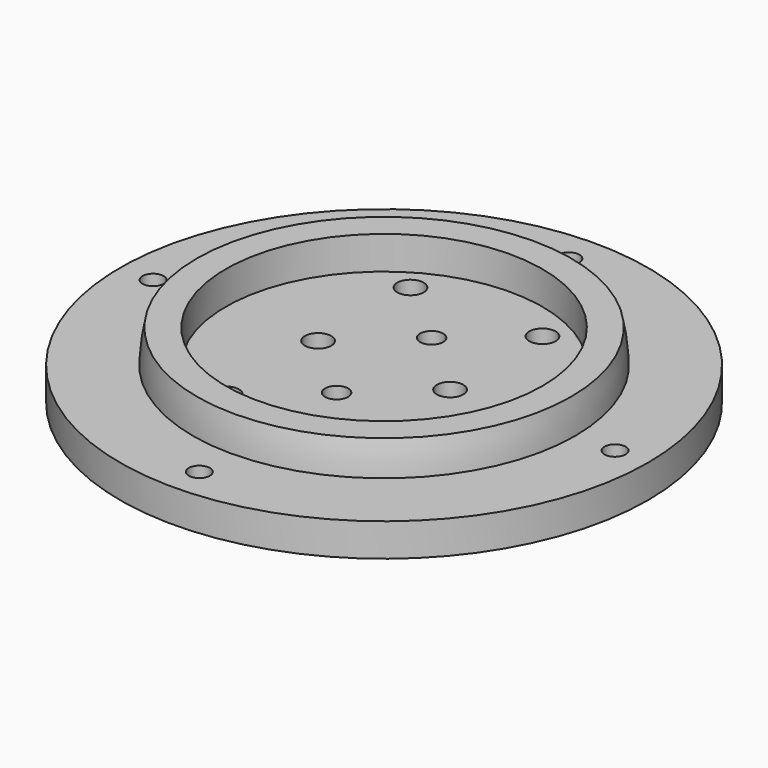
from build123d import *

# Parameters (mm, degrees)
CYLINDER047_R     = 1.6
CYLINDER047_DEPTH = 10
CYLINDER048_R     = 1.6
CYLINDER048_DEPTH = 10
CYLINDER049_R     = 1.6
CYLINDER049_DEPTH = 10
CYLINDER046_R     = 1.6
CYLINDER046_DEPTH = 10
CYLINDER043_R     = 2
CYLINDER043_DEPTH = 10
CYLINDER042_R     = 2
CYLINDER042_DEPTH = 10
CYLINDER045_R     = 1.75
CYLINDER045_DEPTH = 10
CYLINDER044_R     = 1.75
CYLINDER044_DEPTH = 10
CYLINDER036_R     = 2
CYLINDER036_DEPTH = 10
CYLINDER037_R     = 2
CYLINDER037_DEPTH = 10
CYLINDER038_R     = 2
CYLINDER038_DEPTH = 10
CYLINDER039_R     = 2
CYLINDER039_DEPTH = 10
CYLINDER041_R     = 24
CYLINDER041_DEPTH = 7
CYLINDER040_R     = 40
CYLINDER040_DEPTH = 5


with BuildPart() as obj1:
    # Cylinder047 → Cylinder047 (new body)
    with BuildSketch(Plane(origin=(40, 0, 65), x_dir=(1, 0, 0), z_dir=(0, 0, 1))):
        Circle(CYLINDER047_R)
    extrude(amount=CYLINDER047_DEPTH)


with BuildPart() as obj2:
    # Cylinder048 → Cylinder048 (new body)
    with BuildSketch(Plane(origin=(5, 35, 65), x_dir=(1, 0, 0), z_dir=(0, 0, 1))):
        Circle(CYLINDER048_R)
    extrude(amount=CYLINDER048_DEPTH)


with BuildPart() as obj3:
    # Cylinder049 → Cylinder049 (new body)
    with BuildSketch(Plane(origin=(5, -35, 65), x_dir=(1, 0, 0), z_dir=(0, 0, 1))):
        Circle(CYLINDER049_R)
    extrude(amount=CYLINDER049_DEPTH)


with BuildPart() as fusion021:
    # Cylinder046 → Cylinder046 (new body)
    with BuildSketch(Plane(origin=(-30, 0, 65), x_dir=(1, 0, 0), z_dir=(0, 0, 1))):
        Circle(CYLINDER046_R)
    extrude(amount=CYLINDER046_DEPTH)

    # Fusion021: union obj1, obj2, obj3
    add(obj1.part)
    add(obj2.part)
    add(obj3.part)


with BuildPart() as wirecut003:
    # Cylinder043 → Cylinder043 (new body)
    with BuildSketch(Plane(origin=(15, 0, 70), x_dir=(1, 0, 0), z_dir=(0, 0, 1))):
        Circle(CYLINDER043_R)
    extrude(amount=CYLINDER043_DEPTH)


with BuildPart() as wirecuts001:
    # Cylinder042 → Cylinder042 (new body)
    with BuildSketch(Plane(origin=(-5, 0, 70), x_dir=(1, 0, 0), z_dir=(0, 0, 1))):
        Circle(CYLINDER042_R)
    extrude(amount=CYLINDER042_DEPTH)

    # Fusion017: union wireCUt003
    add(wirecut003.part)


with BuildPart() as m3cuts003:
    # Cylinder045 → Cylinder045 (new body)
    with BuildSketch(Plane(origin=(5, 9, 70), x_dir=(1, 0, 0), z_dir=(0, 0, 1))):
        Circle(CYLINDER045_R)
    extrude(amount=CYLINDER045_DEPTH)


with BuildPart() as m3cute001:
    # Cylinder044 → Cylinder044 (new body)
    with BuildSketch(Plane(origin=(5, -9, 70), x_dir=(1, 0, 0), z_dir=(0, 0, 1))):
        Circle(CYLINDER044_R)
    extrude(amount=CYLINDER044_DEPTH)

    # Fusion018: union m3Cuts003
    add(m3cuts003.part)


with BuildPart() as cylinder036:
    # Cylinder036 → Cylinder036 (new body)
    with BuildSketch(Plane(origin=(0, -21, 0), x_dir=(1, 0, 0), z_dir=(0, 0, 1))):
        Circle(CYLINDER036_R)
    extrude(amount=CYLINDER036_DEPTH)


with BuildPart() as m3heatsetcuts003:
    # Cylinder037 → Cylinder037 (new body)
    with BuildSketch(Plane(origin=(20, -21, 0), x_dir=(1, 0, 0), z_dir=(0, 0, 1))):
        Circle(CYLINDER037_R)
    extrude(amount=CYLINDER037_DEPTH)

    # Fusion014: union Cylinder036
    add(cylinder036.part)


with BuildPart() as m3heatsetcuts003_1:
    # Fusion014 placement: moved
    add(m3heatsetcuts003.part.moved(Location((-5, 38.5, 70))))


with BuildPart() as cylinder038:
    # Cylinder038 → Cylinder038 (new body)
    with BuildSketch(Plane(origin=(0, -21, 0), x_dir=(1, 0, 0), z_dir=(0, 0, 1))):
        Circle(CYLINDER038_R)
    extrude(amount=CYLINDER038_DEPTH)


with BuildPart() as basecuts001:
    # Cylinder039 → Cylinder039 (new body)
    with BuildSketch(Plane(origin=(20, -21, 0), x_dir=(1, 0, 0), z_dir=(0, 0, 1))):
        Circle(CYLINDER039_R)
    extrude(amount=CYLINDER039_DEPTH)

    # Fusion015: union Cylinder038
    add(cylinder038.part)


with BuildPart() as basecuts001_1:
    # Fusion015 placement: moved
    add(basecuts001.part.moved(Location((-5, 3.5, 70))))

    # Fusion016: union m3HeatSetCuts003
    add(m3heatsetcuts003_1.part)

    # Fusion019: union wireCuts001, m3Cute001
    add(wirecuts001.part)
    add(m3cute001.part)


with BuildPart() as basecut001:
    # Cylinder041 → Cylinder041 (new body)
    with BuildSketch(Plane(origin=(5, 0, 74), x_dir=(1, 0, 0), z_dir=(0, 0, 1))):
        Circle(CYLINDER041_R)
    extrude(amount=CYLINDER041_DEPTH)


with BuildPart() as cut006:
    # Sphere002 → Sphere002 (revolve)
    with BuildSketch(Plane(origin=(5, 0, 74), x_dir=(1, 0, 0), z_dir=(0, -1, 0))):
        with BuildLine():
            ThreePointArc((29, 0), (28.841135, 3.031325), (28.36628, 6.029439))
            Line((28.36628, 6.029439), (0, 6.029439))
            Line((0, 6.029439), (0, 0))
            Line((0, 0), (29, 0))
        make_face()
    revolve(axis=Axis((5, 0, 74), (0, 0, 1)))

    # Cut006: cut baseCut001
    add(basecut001.part, mode=Mode.SUBTRACT)


with BuildPart() as lightmodule001:
    # Cylinder040 → Cylinder040 (new body)
    with BuildSketch(Plane(origin=(5, 0, 70), x_dir=(1, 0, 0), z_dir=(0, 0, 1))):
        Circle(CYLINDER040_R)
    extrude(amount=CYLINDER040_DEPTH)

    # Fusion020: union Cut006
    add(cut006.part)

    # Cut007: cut baseCUts001
    add(basecuts001_1.part, mode=Mode.SUBTRACT)

    # Cut008: cut Fusion021
    add(fusion021.part, mode=Mode.SUBTRACT)


with BuildPart() as lightmodule001_1:
    # Cut008 placement: moved
    add(lightmodule001.part.moved(Location((-5, -346, 0))))


solid = lightmodule001_1.part
